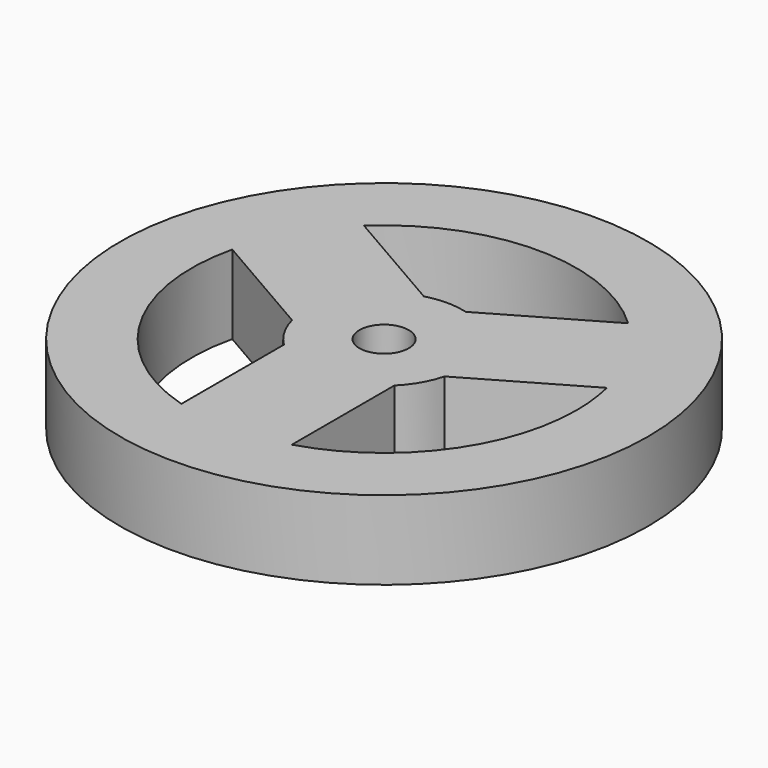
from build123d import *

# Parameters (mm, degrees)
F0_R     = 16.9926
F0_R_2   = 1.5875
F1_DEPTH = 5.08


with BuildPart() as f1:
    # F0 (on Top) → F1 (new body)
    with BuildSketch(Plane.XY):
        Circle(F0_R)
        with BuildLine():
            ThreePointArc((12.057847, 2.855486), (12.30769, 1.437448), (12.391347, 0))
            ThreePointArc((12.391347, 0), (9.940048, -7.398711), (3.556, -11.870145))
            ThreePointArc((3.556, -11.870145), (0, -12.391347), (-3.556, -11.870145))
            ThreePointArc((-3.556, -11.870145), (-10.731221, -6.195674), (-12.057847, 2.855486))
            ThreePointArc((-12.057847, 2.855486), (-10.731221, 6.195674), (-8.501847, 9.014659))
            ThreePointArc((-8.501847, 9.014659), (0, 12.391347), (8.501847, 9.014659))
            ThreePointArc((8.501847, 9.014659), (10.731221, 6.195674), (12.057847, 2.855486))
        make_face(mode=Mode.SUBTRACT)
        with BuildLine():
            Line((-1.351816, 4.886587), (-8.501847, 9.014659))
            ThreePointArc((-8.501847, 9.014659), (-10.731221, 6.195674), (-12.057847, 2.855486))
            Line((-12.057847, 2.855486), (-4.907816, -1.272586))
            ThreePointArc((-4.907816, -1.272586), (-4.390854, 2.535061), (-1.351816, 4.886587))
        make_face()
        with BuildLine():
            ThreePointArc((3.556, -3.614001), (4.390854, -2.535061), (4.907816, -1.272586))
            ThreePointArc((4.907816, -1.272586), (5.029382, -0.641447), (5.070122, 0))
            ThreePointArc((5.070122, 0), (4.034849, 3.070201), (1.351816, 4.886587))
            ThreePointArc((1.351816, 4.886587), (0, 5.070122), (-1.351816, 4.886587))
            ThreePointArc((-1.351816, 4.886587), (-4.390854, 2.535061), (-4.907816, -1.272586))
            ThreePointArc((-4.907816, -1.272586), (-4.390854, -2.535061), (-3.556, -3.614001))
            ThreePointArc((-3.556, -3.614001), (0, -5.070122), (3.556, -3.614001))
        make_face()
        Circle(F0_R_2, mode=Mode.SUBTRACT)
        with BuildLine():
            ThreePointArc((-3.556, -11.870145), (0, -12.391347), (3.556, -11.870145))
            Line((3.556, -11.870145), (3.556, -3.614001))
            ThreePointArc((3.556, -3.614001), (0, -5.070122), (-3.556, -3.614001))
            Line((-3.556, -3.614001), (-3.556, -11.870145))
        make_face()
        with BuildLine():
            Line((4.907816, -1.272586), (12.057847, 2.855486))
            ThreePointArc((12.057847, 2.855486), (10.731221, 6.195674), (8.501847, 9.014659))
            Line((8.501847, 9.014659), (1.351816, 4.886587))
            ThreePointArc((1.351816, 4.886587), (4.034849, 3.070201), (5.070122, 0))
            ThreePointArc((5.070122, 0), (5.029382, -0.641447), (4.907816, -1.272586))
        make_face()
    extrude(amount=F1_DEPTH)


solid = f1.part
